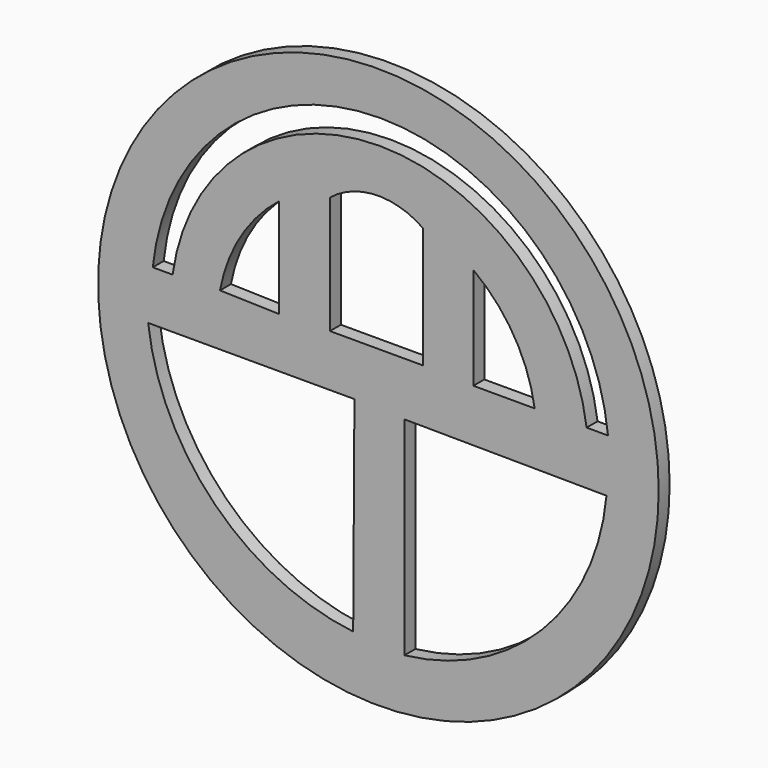
from build123d import *

# Parameters (mm, degrees)
F0_R     = 31.205953
F1_DEPTH = 1.524


with BuildPart() as f1:
    # F0 (on Front) → F1 (new body)
    with BuildSketch(Plane.XZ):
        Circle(F0_R)
        with BuildLine():
            ThreePointArc((-2.805146, -24.875982), (-18.185395, -17.42539), (-25.628051, -2.0413))
            Line((-25.628051, -2.0413), (-2.669501, -2.0413))
            Line((-2.669501, -2.0413), (-2.805146, -24.875982))
        make_face(mode=Mode.SUBTRACT)
        with BuildLine():
            Line((2.898337, -2.211363), (25.390945, -2.381427))
            ThreePointArc((25.390945, -2.381427), (18.215711, -17.848226), (2.898337, -25.337146))
            Line((2.898337, -25.337146), (2.898337, -2.211363))
        make_face(mode=Mode.SUBTRACT)
        with BuildLine():
            Line((-11.086749, 3.57079), (-17.635075, 3.740853))
            ThreePointArc((-17.635075, 3.740853), (-15.345305, 9.766593), (-11.086749, 14.605734))
            Line((-11.086749, 14.605734), (-11.086749, 3.57079))
        make_face(mode=Mode.SUBTRACT)
        with BuildLine():
            Line((4.983347, 3.740853), (-5.390513, 3.740853))
            Line((-5.390513, 3.740853), (-5.390513, 16.835731))
            ThreePointArc((-5.390513, 16.835731), (-0.260575, 18.744053), (4.983347, 17.175857))
            Line((4.983347, 17.175857), (4.983347, 3.740853))
        make_face(mode=Mode.SUBTRACT)
        with BuildLine():
            ThreePointArc((-25.117861, 3.57079), (0.221574, 26.444427), (25.561009, 3.57079))
            Line((25.561009, 3.57079), (23.180122, 3.57079))
            ThreePointArc((23.180122, 3.57079), (0.136542, 23.691475), (-22.907037, 3.57079))
            Line((-22.907037, 3.57079), (-25.117861, 3.57079))
        make_face(mode=Mode.SUBTRACT)
        with BuildLine():
            ThreePointArc((10.567403, 14.927215), (15.108156, 9.92594), (17.39797, 3.57079))
            Line((17.39797, 3.57079), (10.567403, 3.57079))
            Line((10.567403, 3.57079), (10.567403, 14.927215))
        make_face(mode=Mode.SUBTRACT)
    extrude(amount=F1_DEPTH)


solid = f1.part
